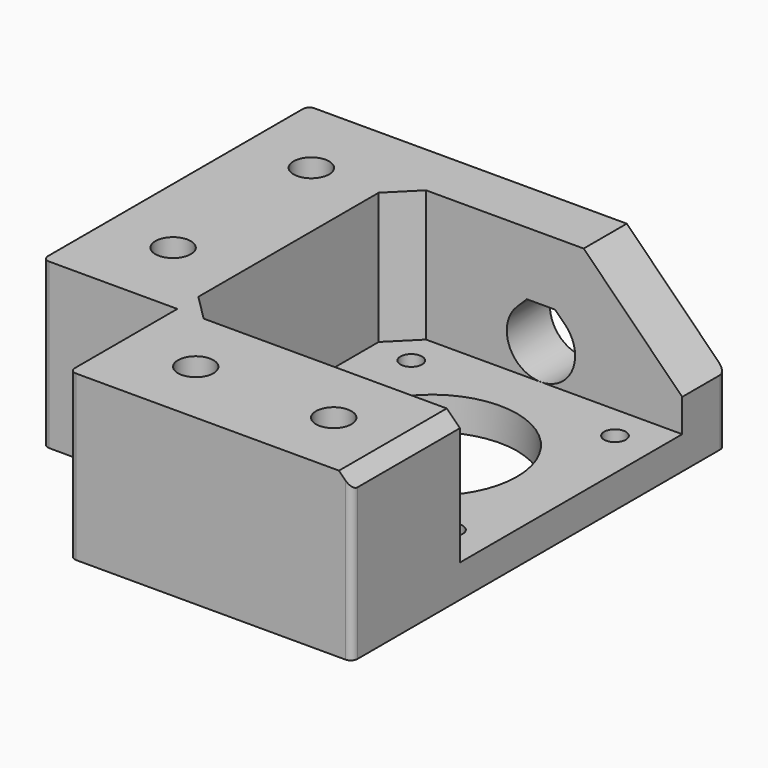
from build123d import *

# Parameters (mm, degrees)
EXTRUDE003_DEPTH           = 10
EXTRUDE003_PLACEMENT_ANGLE = 90
SKETCH002_R                = 2.7
EXTRUDE002_DEPTH           = 25
SKETCH001_R                = 5.2
EXTRUDE001_DEPTH           = 6
SKETCH_R                   = 13
SKETCH_R_2                 = 1.65
EXTRUDE_DEPTH              = 5
BOX002_W                   = 43
BOX002_H                   = 42.3
BOX002_DEPTH               = 20
CHAMFER_SIZE               = 4
BOX001_W                   = 20.5
BOX001_H                   = 20.5
BOX001_DEPTH               = 25
BOX_W                      = 63.5
BOX_H                      = 71
BOX_DEPTH                  = 25
CHAMFER001_1_SIZE          = 15
CHAMFER001_2_SIZE          = 2
FILLET_R                   = 1


with BuildPart() as obj1:
    # Sketch003 → Extrude003 (new body)
    with BuildSketch(Plane.YZ):
        with BuildLine():
            ThreePointArc((-3.676943, 3.676968), (0, -5.2), (3.676943, 3.676968))
            Line((2.153911, 5.2), (3.676943, 3.676968))
            Line((-2.153911, 5.2), (2.153911, 5.2))
            Line((-3.676943, 3.676968), (-2.153911, 5.2))
        make_face()
    extrude(amount=EXTRUDE003_DEPTH)


with BuildPart() as obj1_1:
    # Extrude003 placement: moved
    add(obj1.part.moved(Location((42, 62, 10.2))).rotate(Axis((42, 62, 10.2), (0, 0, 1)), EXTRUDE003_PLACEMENT_ANGLE))


with BuildPart() as obj2:
    # Sketch002 → Extrude002 (new body)
    with BuildSketch(Plane.XY):
        with Locations((31.5, 10.25)):
            Circle(SKETCH002_R)
        with Locations((52.5, 10.25)):
            Circle(SKETCH002_R)
        with Locations((10.25, 32.5)):
            Circle(SKETCH002_R)
        with Locations((10.25, 58.8)):
            Circle(SKETCH002_R)
    extrude(amount=EXTRUDE002_DEPTH)


with BuildPart() as huecos:
    # Sketch001 → Extrude001 (new body)
    with BuildSketch(Plane.XY):
        with Locations((31.5, 10.25)):
            Circle(SKETCH001_R)
        with Locations((52.5, 10.25)):
            Circle(SKETCH001_R)
        with Locations((10.25, 32.5)):
            Circle(SKETCH001_R)
        with Locations((10.25, 58.8)):
            Circle(SKETCH001_R)
    extrude(amount=EXTRUDE001_DEPTH)

    # Fusion001: union obj2
    add(obj2.part)

    # Fusion002: union obj1
    add(obj1_1.part)


with BuildPart() as agujero_motor:
    # Sketch → Extrude (new body)
    with BuildSketch(Plane(origin=(20.5, 20.5, 25), x_dir=(1, 0, 0), z_dir=(0, 0, 1))):
        with Locations((21.5, 21.5)):
            Circle(SKETCH_R)
        with Locations((6, 37)):
            Circle(SKETCH_R_2)
        with Locations((37, 37)):
            Circle(SKETCH_R_2)
        with Locations((37, 6)):
            Circle(SKETCH_R_2)
        with Locations((6, 6)):
            Circle(SKETCH_R_2)
    extrude(amount=EXTRUDE_DEPTH)


with BuildPart() as agujero_motor_1:
    # Extrude placement: moved
    add(agujero_motor.part.moved(Location((0, 0, -25))))


with BuildPart() as hueco_motor_total:
    # Box002 → Box002 (new body)
    with BuildSketch(Plane(origin=(20.5, 20.5, 5), x_dir=(1, 0, 0), z_dir=(0, 0, 1))):
        with Locations((21.5, 21.15)):
            Rectangle(BOX002_W, BOX002_H)
    extrude(amount=BOX002_DEPTH)

    # Chamfer
    chamfer_edges = [hueco_motor_total.edges().sort_by_distance(p)[0] for p in [
        (20.5, 20.5, 15),
        (20.5, 62.8, 15),
    ]]
    chamfer(chamfer_edges, length=CHAMFER_SIZE)

    # Fusion: union agujero_motor
    add(agujero_motor_1.part)


with BuildPart() as obj3:
    # Box001 → Box001 (new body)
    with BuildSketch(Plane.XY):
        with Locations((10.25, 10.25)):
            Rectangle(BOX001_W, BOX001_H)
    extrude(amount=BOX001_DEPTH)


with BuildPart() as obj4:
    # Box → Box (new body)
    with BuildSketch(Plane.XY):
        with Locations((31.75, 35.5)):
            Rectangle(BOX_W, BOX_H)
    extrude(amount=BOX_DEPTH)

    # Cut: cut obj3
    add(obj3.part, mode=Mode.SUBTRACT)

    # Cut001: cut hueco_motor_total
    add(hueco_motor_total.part, mode=Mode.SUBTRACT)

    # Cut002: cut huecos
    add(huecos.part, mode=Mode.SUBTRACT)

    # Chamfer001 1
    chamfer001_1_edges = [obj4.edges().sort_by_distance(p)[0] for p in [
        (63.5, 66.9, 25),
    ]]
    chamfer(chamfer001_1_edges, length=CHAMFER001_1_SIZE)

    # Chamfer001 2
    chamfer001_2_edges = [obj4.edges().sort_by_distance(p)[0] for p in [
        (63.5, 10.25, 25),
    ]]
    chamfer(chamfer001_2_edges, length=CHAMFER001_2_SIZE)

    # Fillet
    fillet_edges = [obj4.edges().sort_by_distance(p)[0] for p in [
        (63.5, 71, 5),
        (0, 71, 12.5),
        (0, 20.5, 12.5),
        (20.5, 0, 12.5),
        (63.5, 0, 11.5),
    ]]
    fillet(fillet_edges, radius=FILLET_R)


solid = obj4.part
